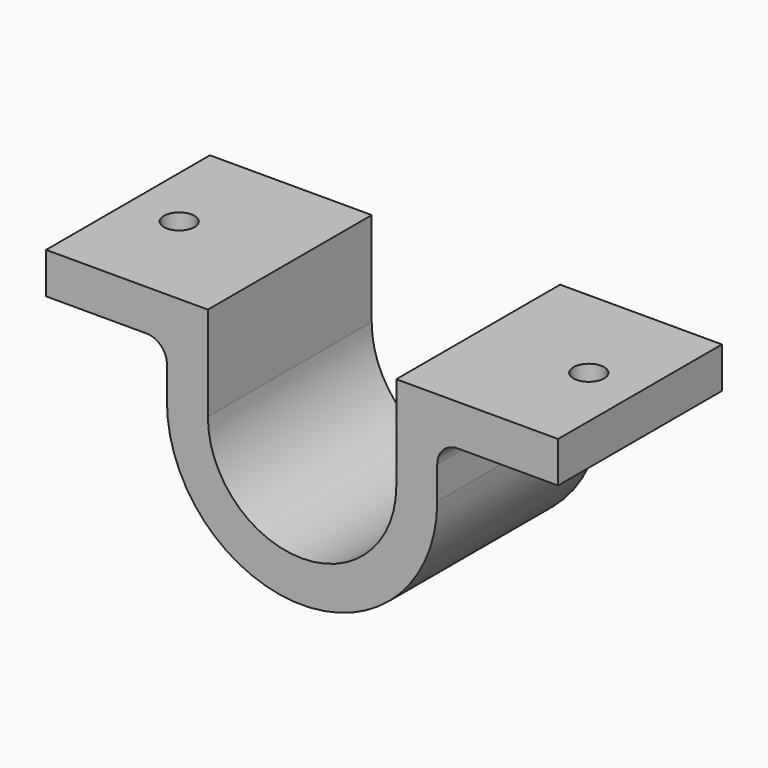
from build123d import *

# Parameters (mm, degrees)
F1_DEPTH = 25.4
F3_D     = 3.7973
F3_DEPTH = 101.6
F3_TIP   = 1.1408240143
F4_R     = 2.54


with BuildPart() as f1:
    # F0 (on Front) → F1 (new body)
    with BuildSketch(Plane.XZ):
        with BuildLine():
            ThreePointArc((11.684, 0), (0, -11.684), (-11.684, 0))
            Line((-11.684, 0), (-11.684, 11.684))
            Line((-11.684, 11.684), (-31.75, 11.684))
            Line((-31.75, 11.684), (-31.75, 6.604))
            Line((-31.75, 6.604), (-16.764, 6.604))
            Line((-16.764, 6.604), (-16.764, 0))
            ThreePointArc((-16.764, 0), (0, -16.764), (16.764, 0))
            Line((16.764, 0), (16.764, 6.604))
            Line((16.764, 6.604), (31.75, 6.604))
            Line((31.75, 6.604), (31.75, 11.684))
            Line((31.75, 11.684), (11.684, 11.684))
            Line((11.684, 11.684), (11.684, 0))
        make_face()
    extrude(amount=F1_DEPTH)

    # F3
    with Locations(Plane(origin=(0, 0, 6.604), x_dir=(1, 0, 0), z_dir=(0, 0, -1))):
        with Locations((-25.4, 12.7), (25.4, 12.7)):
            Hole(F3_D / 2, depth=F3_DEPTH)
            with Locations((0, 0, -(F3_DEPTH + F3_TIP / 2))):  # 118° drill point
                Cone(0, F3_D / 2, F3_TIP, mode=Mode.SUBTRACT)

    # F4
    f4_edges = [f1.edges().sort_by_distance(p)[0] for p in [
        (16.764, -12.7, 6.604),
        (-16.764, -12.7, 6.604),
    ]]
    fillet(f4_edges, radius=F4_R)


solid = f1.part
